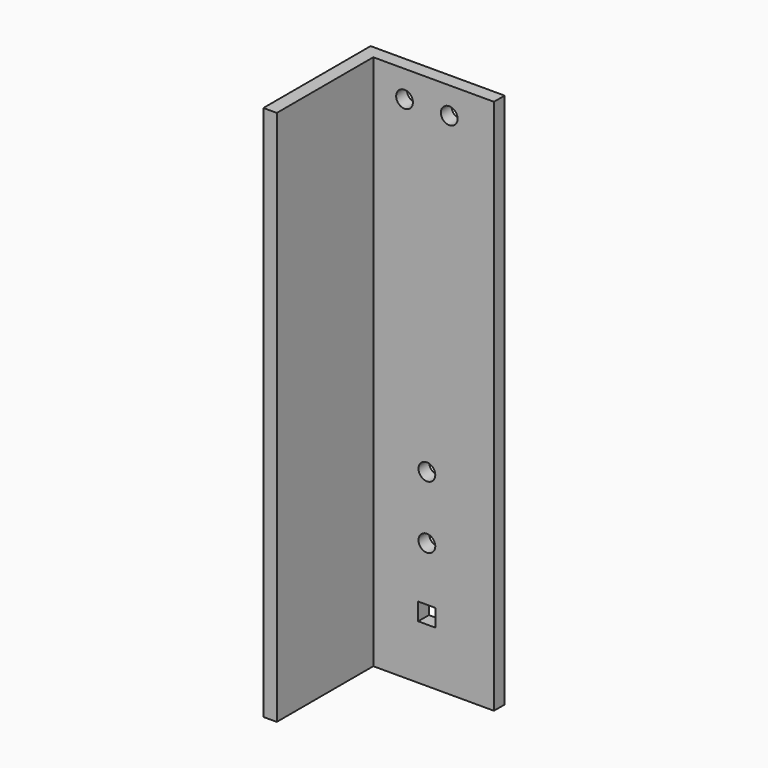
from build123d import *

# Parameters (mm, degrees)
F0_W     = 25.4
F0_H     = 101.6
F1_DEPTH = 25.4
F2_T     = -2.54
F4_D     = 3.175
F3_W     = 3.302
F3_H     = 3.302
F5_DEPTH = 5.842


with BuildPart() as f1:
    # F0 (on Front) → F1 (new body)
    with BuildSketch(Plane.XZ):
        with Locations((-18.130922, -22.141445)):
            Rectangle(F0_W, F0_H)
    extrude(amount=F1_DEPTH)

    # F2
    f2_openings = [f1.faces().sort_by_distance(p)[0] for p in [
        (-5.430922, -12.7, -22.141445),
        (-18.130922, -25.4, -22.141445),
        (-18.130922, -12.7, 28.658555),
        (-18.130922, -12.7, -72.941445),
    ]]
    offset(amount=F2_T, openings=f2_openings)

    # F4 (through all)
    with Locations(Plane.XZ.offset(2.54)):
        with Locations((-13.897588, 23.578555), (-22.364255, 23.578555), (-18.130922, -37.203645), (-18.130922, -49.116245)):
            Hole(F4_D / 2)

    # F3 (on face) → F5 (cut)
    with BuildSketch(Plane.XZ.offset(2.54)):
        with Locations((-18.130922, -61.028845)):
            Rectangle(F3_W, F3_H)
    extrude(amount=-F5_DEPTH, mode=Mode.SUBTRACT)


solid = f1.part
